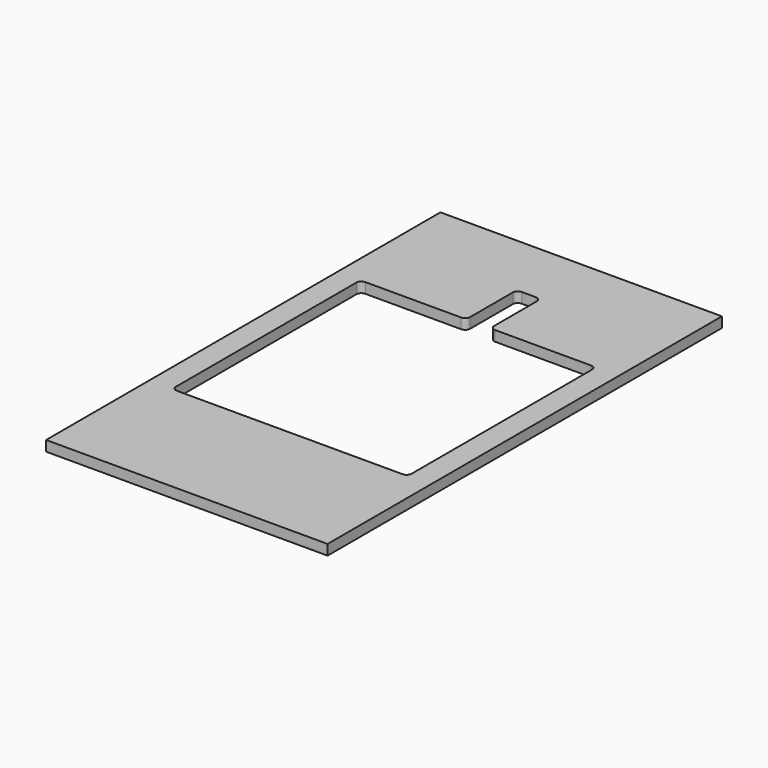
from build123d import *

# Parameters (mm, degrees)
F0_W     = 178.59375
F0_H     = 312.7375
F1_DEPTH = 6.5532
F3_DEPTH = 25.4


with BuildPart() as f1:
    # F0 (on Top) → F1 (new body)
    with BuildSketch(Plane.XY):
        with Locations((89.296875, 156.36875)):
            Rectangle(F0_W, F0_H)
    extrude(amount=F1_DEPTH)

    # F2 (on face) → F3 (cut)
    with BuildSketch(Plane.XY.offset(6.5532)):
        with BuildLine():
            Line((78.501875, 231.0511), (17.7292, 231.0511))
            ThreePointArc((17.7292, 231.0511), (15.484136, 230.121164), (14.5542, 227.8761))
            Line((14.5542, 227.8761), (14.5542, 84.836))
            ThreePointArc((14.5542, 84.836), (15.484136, 82.590936), (17.7292, 81.661))
            Line((17.7292, 81.661), (160.86455, 81.661))
            ThreePointArc((160.86455, 81.661), (163.109614, 82.590936), (164.03955, 84.836))
            Line((164.03955, 84.836), (164.03955, 227.8761))
            ThreePointArc((164.03955, 227.8761), (163.109614, 230.121164), (160.86455, 231.0511))
            Line((160.86455, 231.0511), (100.091875, 231.0511))
            ThreePointArc((100.091875, 231.0511), (97.846811, 231.981036), (96.916875, 234.2261))
            Line((96.916875, 234.2261), (96.916875, 268.0081))
            ThreePointArc((96.916875, 268.0081), (95.986939, 270.253164), (93.741875, 271.1831))
            Line((93.741875, 271.1831), (84.851875, 271.1831))
            ThreePointArc((84.851875, 271.1831), (82.606811, 270.253164), (81.676875, 268.0081))
            Line((81.676875, 268.0081), (81.676875, 234.2261))
            ThreePointArc((81.676875, 234.2261), (80.746939, 231.981036), (78.501875, 231.0511))
        make_face()
    extrude(amount=-F3_DEPTH, mode=Mode.SUBTRACT)


solid = f1.part
